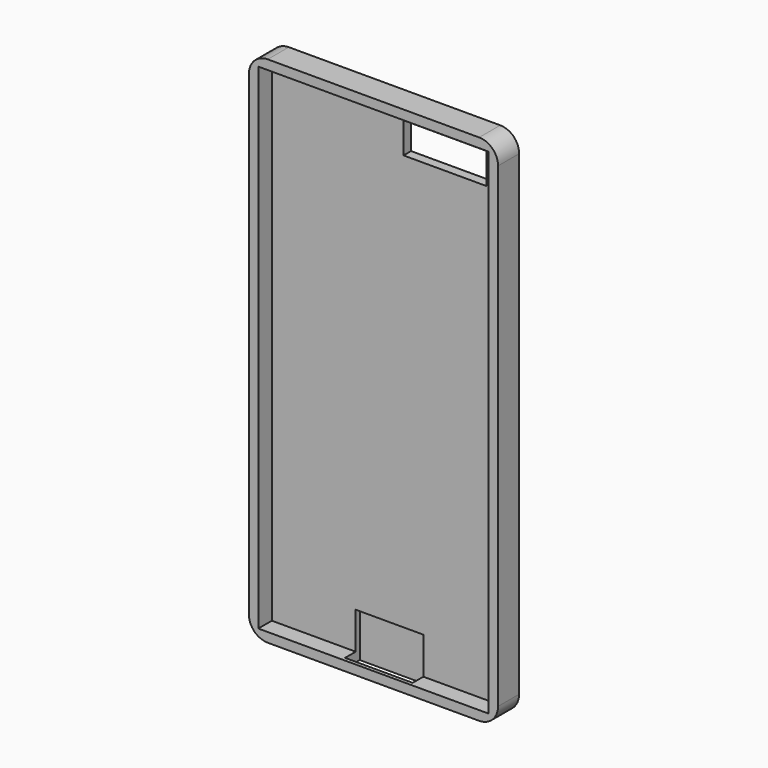
from build123d import *

# Parameters (mm, degrees)
F0_W     = 67.1
F0_H     = 138.3
F1_DEPTH = 7.1
F2_T     = -2.54
F3_R     = 5.08
F5_W     = 18.216582
F5_H     = 4.952895
F6_DEPTH = 12.5
F4_W     = 22.377047
F4_H     = 8.319672
F7_DEPTH = 12.5


with BuildPart() as f1:
    # F0 (on Front) → F1 (new body)
    with BuildSketch(Plane.XZ):
        Rectangle(F0_W, F0_H)
    extrude(amount=F1_DEPTH)

    # F2
    f2_openings = [f1.faces().sort_by_distance(p)[0] for p in [
        (0, -7.1, 0),
    ]]
    offset(amount=F2_T, openings=f2_openings)

    # F3
    f3_edges = [f1.edges().sort_by_distance(p)[0] for p in [
        (33.55, -3.55, 69.15),
        (33.55, -3.55, -69.15),
        (-33.55, -3.55, 69.15),
        (-33.55, -3.55, -69.15),
    ]]
    fillet(f3_edges, radius=F3_R)

    # F5 (on face) → F6 (cut, symmetric)
    with BuildSketch(Plane(origin=(0, 0, -69.15), x_dir=(1, 0, 0), z_dir=(0, 0, -1))):
        with Locations((0.68537, 3.650227)):
            Rectangle(F5_W, F5_H)
    extrude(amount=F6_DEPTH, both=True, mode=Mode.SUBTRACT)

    # F4 (on face) → F7 (cut, symmetric)
    with BuildSketch(Plane.XZ.offset(2.54)):
        with Locations((15.635246, 59.385249)):
            Rectangle(F4_W, F4_H)
    extrude(amount=F7_DEPTH, both=True, mode=Mode.SUBTRACT)


solid = f1.part
